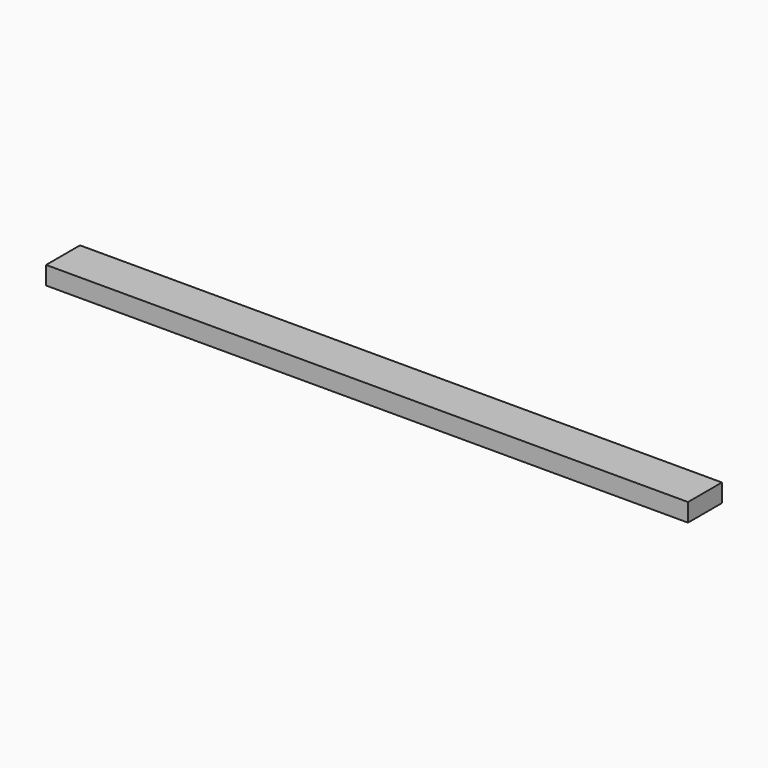
from build123d import *

# Parameters (mm, degrees)
F0_W     = 88.9
F0_H     = 38.1
F1_DEPTH = 1346.2


with BuildPart() as f1:
    # F0 (on Right) → F1 (new body)
    with BuildSketch(Plane.YZ):
        Rectangle(F0_W, F0_H)
        Rectangle(F0_W, F0_H)
    extrude(amount=F1_DEPTH)


solid = f1.part
